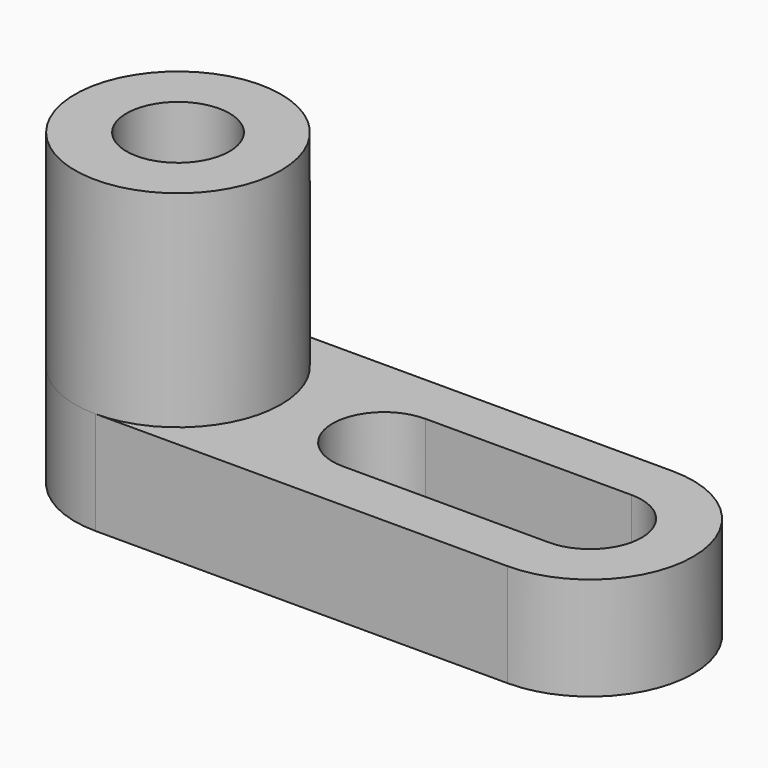
from build123d import *

# Parameters (mm, degrees)
F1_DEPTH = 25.4
F2_R     = 25.4
F2_R_2   = 12.7
F3_DEPTH = 50.8


with BuildPart() as f1:
    # F0 (on Top) → F1 (new body)
    with BuildSketch(Plane.XY):
        with BuildLine():
            ThreePointArc((-96.009054, -17.666716), (-88.569566, -35.627229), (-70.609054, -43.066716))
            Line((-70.609054, -43.066716), (30.990946, -43.066716))
            ThreePointArc((30.990946, -43.066716), (56.390946, -17.666716), (30.990946, 7.733284))
            Line((30.990946, 7.733284), (-70.609054, 7.733284))
            ThreePointArc((-70.609054, 7.733284), (-88.569566, 0.293796), (-96.009054, -17.666716))
        make_face()
        with BuildLine():
            ThreePointArc((30.989875, -4.966716), (43.690946, -17.666181), (30.990946, -30.366716))
            Line((30.990946, -30.366716), (-19.809054, -30.366716))
            ThreePointArc((-19.809054, -30.366716), (-32.509054, -17.666716), (-19.809054, -4.966716))
            Line((-19.809054, -4.966716), (30.989875, -4.966716))
        make_face(mode=Mode.SUBTRACT)
    extrude(amount=F1_DEPTH)

    # F2 (on face) → F3 (join)
    with BuildSketch(Plane.XY.offset(25.4)):
        with Locations((-70.609054, -17.666716)):
            Circle(F2_R)
        with Locations((-70.609054, -17.666716)):
            Circle(F2_R_2, mode=Mode.SUBTRACT)
    extrude(amount=F3_DEPTH)


solid = f1.part
